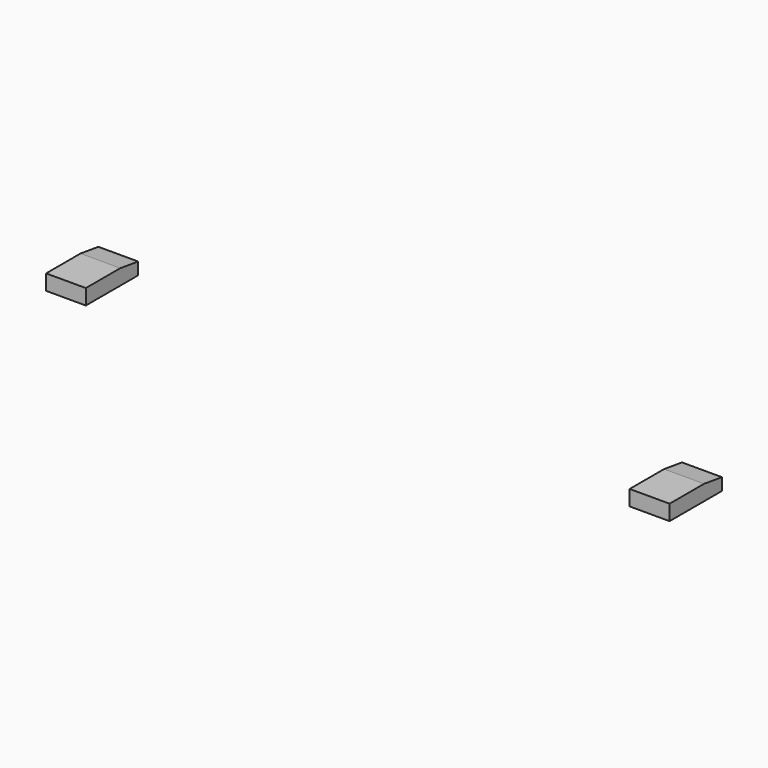
from build123d import *

# Parameters (mm, degrees)
BOX085017_W                    = 2.4
BOX085017_H                    = 10.2
BOX085017_DEPTH                = 6.23
BOX085014_W                    = 2.4
BOX085014_H                    = 10.2
BOX085014_DEPTH                = 6.2
CHAMFER011006003017066_1_SIZE2 = 0.5
CHAMFER011006003017066_1_SIZE  = 3.49
CHAMFER011006003017066_2_SIZE2 = 0.5
CHAMFER011006003017066_2_SIZE  = 3.49


with BuildPart() as cube105:
    # Box085017 → Box085017 (new body)
    with BuildSketch(Plane(origin=(138.9, 107.2, 98.2), x_dir=(0, 0, -1), z_dir=(1, 0, 0))):
        with Locations((1.2, 5.1)):
            Rectangle(BOX085017_W, BOX085017_H)
    extrude(amount=BOX085017_DEPTH)


with BuildPart() as top_tab_holes_old:
    # Box085014 → Box085014 (new body)
    with BuildSketch(Plane(origin=(47.9, 107.2, 98.2), x_dir=(0, 0, -1), z_dir=(1, 0, 0))):
        with Locations((1.2, 5.1)):
            Rectangle(BOX085014_W, BOX085014_H)
    extrude(amount=BOX085014_DEPTH)

    # Fusion004008002002002001007002002026012005: union Cube105
    add(cube105.part)

    # Chamfer011006003017066 1
    chamfer011006003017066_1_edges = [top_tab_holes_old.edges().sort_by_distance(p)[0] for p in [
        (142.015, 117.4, 98.2),
    ]]
    chamfer011006003017066_1_side = top_tab_holes_old.faces().sort_by_distance((142.015, 112.3, 98.2))[0]
    chamfer(chamfer011006003017066_1_edges, length=CHAMFER011006003017066_1_SIZE, length2=CHAMFER011006003017066_1_SIZE2, reference=chamfer011006003017066_1_side)

    # Chamfer011006003017066 2
    chamfer011006003017066_2_edges = [top_tab_holes_old.edges().sort_by_distance(p)[0] for p in [
        (51, 117.4, 98.2),
    ]]
    chamfer011006003017066_2_side = top_tab_holes_old.faces().sort_by_distance((51, 112.3, 98.2))[0]
    chamfer(chamfer011006003017066_2_edges, length=CHAMFER011006003017066_2_SIZE, length2=CHAMFER011006003017066_2_SIZE2, reference=chamfer011006003017066_2_side)


solid = top_tab_holes_old.part
